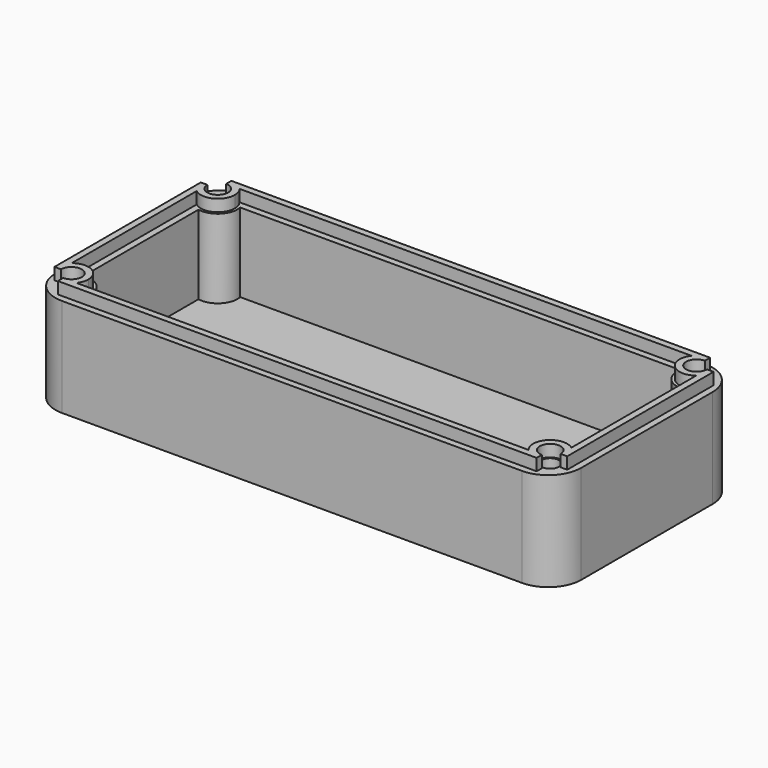
from build123d import *

# Parameters (mm, degrees)
F1_DEPTH       = 38.1
F2_T           = -7.62
F3_R           = 7.62
F4_DEPTH       = 30.48
F6_DEPTH       = 4.572
F8_D           = 6.858
F8_CBORE_D     = 12.7
F8_CBORE_DEPTH = 6.35


with BuildPart() as f1:
    # F0 (on Top) → F1 (new body)
    with BuildSketch(Plane.XY):
        with BuildLine():
            ThreePointArc((0, 12.7), (3.7197438789, 3.7197438789), (12.7, 0))
            Line((12.7, 0), (190.5, 0))
            ThreePointArc((190.5, 0), (199.4802561211, 3.7197438789), (203.2, 12.7))
            Line((203.2, 12.7), (203.2, 44.45))
            Line((203.2, 44.45), (203.2, 76.2))
            ThreePointArc((203.2, 76.2), (199.4802561211, 85.1802561211), (190.5, 88.9))
            Line((190.5, 88.9), (12.7, 88.9))
            ThreePointArc((12.7, 88.9), (3.7197438789, 85.1802561211), (0, 76.2))
            Line((0, 76.2), (0, 44.45))
            Line((0, 44.45), (0, 12.7))
        make_face()
    extrude(amount=F1_DEPTH)

    # F2
    f2_openings = [f1.faces().sort_by_distance(p)[0] for p in [
        (101.6, 44.45, 38.1),
    ]]
    offset(amount=F2_T, openings=f2_openings)

    # F3 (on face) → F4 (join, through all)
    with BuildSketch(Plane.XY.offset(38.1)):
        with Locations((9.1078975516, 79.7921024484)):
            Circle(F3_R)
        with Locations((194.0921024484, 79.7921024484)):
            Circle(F3_R)
        with Locations((9.1078975516, 9.1078975516)):
            Circle(F3_R)
        with Locations((194.0921024484, 9.1078975516)):
            Circle(F3_R)
    extrude(amount=-F4_DEPTH)

    # F5 (on face) → F6 (join)
    with BuildSketch(Plane.XY.offset(38.1)):
        with BuildLine():
            ThreePointArc((14.2957024402, 83.82), (11.9960162975, 85.6909199873), (9.1078975516, 86.36))
            Line((9.1078975516, 86.36), (9.1078975516, 83.82))
            ThreePointArc((9.1078975516, 83.82), (11.9560512242, 82.6402561211), (13.1357951031, 79.7921024484))
            ThreePointArc((13.1357951031, 79.7921024484), (9.1078975516, 75.7642048969), (5.08, 79.7921024484))
            Line((5.08, 79.7921024484), (2.54, 79.7921024484))
            ThreePointArc((2.54, 79.7921024484), (3.2090800127, 76.9039837025), (5.08, 74.6042975598))
            ThreePointArc((5.08, 74.6042975598), (11.9960162975, 73.8932849095), (15.6757951031, 79.7921024484))
            ThreePointArc((15.6757951031, 79.7921024484), (15.3211997844, 81.9209879811), (14.2957024402, 83.82))
        make_face()
        with BuildLine():
            Line((194.0921024484, 86.36), (101.6, 86.36))
            Line((101.6, 86.36), (9.1078975516, 86.36))
            ThreePointArc((9.1078975516, 86.36), (11.9960162975, 85.6909199873), (14.2957024402, 83.82))
            Line((14.2957024402, 83.82), (101.6, 83.82))
            Line((101.6, 83.82), (188.9042975598, 83.82))
            ThreePointArc((188.9042975598, 83.82), (191.2039837025, 85.6909199873), (194.0921024484, 86.36))
        make_face()
        with BuildLine():
            Line((194.0921024484, 83.82), (194.0921024484, 86.36))
            ThreePointArc((194.0921024484, 86.36), (191.2039837025, 85.6909199873), (188.9042975598, 83.82))
            ThreePointArc((188.9042975598, 83.82), (189.4478975516, 75.1478975516), (198.12, 74.6042975598))
            ThreePointArc((198.12, 74.6042975598), (199.9909199873, 76.9039837025), (200.66, 79.7921024484))
            Line((200.66, 79.7921024484), (198.12, 79.7921024484))
            ThreePointArc((198.12, 79.7921024484), (191.2439487758, 76.9439487758), (194.0921024484, 83.82))
        make_face()
        with BuildLine():
            Line((200.66, 44.45), (200.66, 79.7921024484))
            ThreePointArc((200.66, 79.7921024484), (199.9909199873, 76.9039837025), (198.12, 74.6042975598))
            Line((198.12, 74.6042975598), (198.12, 44.45))
            Line((198.12, 44.45), (198.12, 14.2957024402))
            ThreePointArc((198.12, 14.2957024402), (199.9909199873, 11.9960162975), (200.66, 9.1078975516))
            Line((200.66, 9.1078975516), (200.66, 44.45))
        make_face()
        with BuildLine():
            Line((198.12, 9.1078975516), (200.66, 9.1078975516))
            ThreePointArc((200.66, 9.1078975516), (199.9909199873, 11.9960162975), (198.12, 14.2957024402))
            ThreePointArc((198.12, 14.2957024402), (189.4478975516, 13.7521024484), (188.9042975598, 5.08))
            ThreePointArc((188.9042975598, 5.08), (191.2039837025, 3.2090800127), (194.0921024484, 2.54))
            Line((194.0921024484, 2.54), (194.0921024484, 5.08))
            ThreePointArc((194.0921024484, 5.08), (191.2439487758, 11.9560512242), (198.12, 9.1078975516))
        make_face()
        with BuildLine():
            Line((101.6, 2.54), (194.0921024484, 2.54))
            ThreePointArc((194.0921024484, 2.54), (191.2039837025, 3.2090800127), (188.9042975598, 5.08))
            Line((188.9042975598, 5.08), (101.6, 5.08))
            Line((101.6, 5.08), (14.2957024402, 5.08))
            ThreePointArc((14.2957024402, 5.08), (11.9960162975, 3.2090800127), (9.1078975516, 2.54))
            Line((9.1078975516, 2.54), (101.6, 2.54))
        make_face()
        with BuildLine():
            ThreePointArc((5.08, 14.2957024402), (3.2090800127, 11.9960162975), (2.54, 9.1078975516))
            Line((2.54, 9.1078975516), (5.08, 9.1078975516))
            ThreePointArc((5.08, 9.1078975516), (9.1078975516, 13.1357951031), (13.1357951031, 9.1078975516))
            ThreePointArc((13.1357951031, 9.1078975516), (11.9560512242, 6.2597438789), (9.1078975516, 5.08))
            Line((9.1078975516, 5.08), (9.1078975516, 2.54))
            ThreePointArc((9.1078975516, 2.54), (11.9960162975, 3.2090800127), (14.2957024402, 5.08))
            ThreePointArc((14.2957024402, 5.08), (15.3211997844, 6.9790120189), (15.6757951031, 9.1078975516))
            ThreePointArc((15.6757951031, 9.1078975516), (11.9960162975, 15.0067150905), (5.08, 14.2957024402))
        make_face()
        with BuildLine():
            ThreePointArc((5.08, 74.6042975598), (3.2090800127, 76.9039837025), (2.54, 79.7921024484))
            Line((2.54, 79.7921024484), (2.54, 44.45))
            Line((2.54, 44.45), (2.54, 9.1078975516))
            ThreePointArc((2.54, 9.1078975516), (3.2090800127, 11.9960162975), (5.08, 14.2957024402))
            Line((5.08, 14.2957024402), (5.08, 44.45))
            Line((5.08, 44.45), (5.08, 74.6042975598))
        make_face()
    extrude(amount=F6_DEPTH)

    # F8 (through all)
    with Locations(Plane(origin=(0, 0, 0), x_dir=(1, 0, 0), z_dir=(0, 0, -1))):
        with Locations((194.0921024484, -79.7921024484), (194.0921024484, -9.1078975516), (9.1078975516, -9.1078975516), (9.1078975516, -79.7921024484)):
            CounterBoreHole(F8_D / 2, F8_CBORE_D / 2, F8_CBORE_DEPTH)


solid = f1.part
